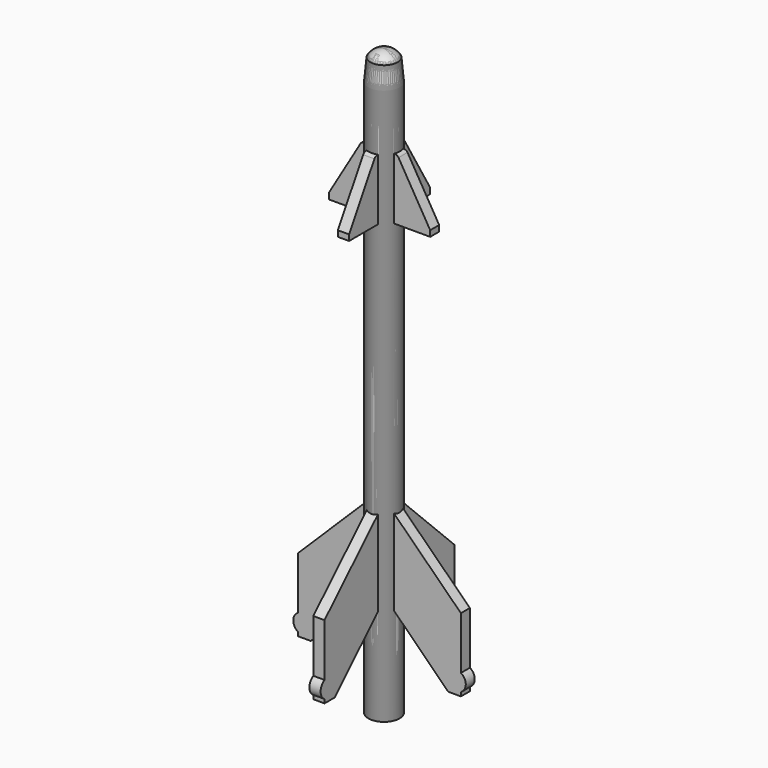
from build123d import *

# Parameters (mm, degrees)
F3_DEPTH = 0.2
F4_COUNT = 4


with BuildPart() as f1:
    # F0 (on Front) → F1 (revolve)
    with BuildSketch(Plane.XZ):
        with BuildLine():
            Line((0, 20.8333333333), (0, 0))
            Line((0, 0), (0.5555555556, 0))
            Line((0.5555555556, 0), (0.5555555556, 19.7916666667))
            Line((0.5555555556, 19.7916666667), (0.4861111111, 20.5555555556))
            ThreePointArc((0.4861111111, 20.5555555556), (0.2799395051, 20.7589913562), (0, 20.8333333333))
        make_face()
    revolve(axis=Axis((0, 0, 10.4166666667), (0, 0, 1)))

    # F2 (on Front) → F3 (join, symmetric)
    with BuildSketch(Plane.XZ):
        with BuildLine():
            Line((2.8993055556, 4.1458333333), (0.3780721664, 6.6334502773))
            Line((0.3780721664, 6.6334502773), (-0.3780721664, 6.6334502773))
            Line((-0.3780721664, 6.6334502773), (-2.8993055556, 4.1458333333))
            Line((-2.8993055556, 4.1458333333), (-2.8993055556, 2.2708333333))
            ThreePointArc((-2.8993055556, 2.2708333333), (-3.0729166667, 1.9722222222), (-2.8993055556, 1.6736111111))
            Line((-2.8993055556, 1.6736111111), (-2.8993055556, 1.5347222222))
            Line((-2.8993055556, 1.5347222222), (-2.4479166667, 1.5347222222))
            Line((-2.4479166667, 1.5347222222), (-0.2579651423, 3.7045824482))
            Line((-0.2579651423, 3.7045824482), (0.2579651423, 3.7045824482))
            Line((0.2579651423, 3.7045824482), (2.4479166667, 1.5347222222))
            Line((2.4479166667, 1.5347222222), (2.8993055556, 1.5347222222))
            Line((2.8993055556, 1.5347222222), (2.8993055556, 1.6736111111))
            ThreePointArc((2.8993055556, 1.6736111111), (3.0729166667, 1.9722222222), (2.8993055556, 2.2708333333))
            Line((2.8993055556, 2.2708333333), (2.8993055556, 4.1458333333))
        make_face()
        with BuildLine():
            Line((-1.8055555556, 15.7986111111), (-1.8055555556, 15.5902777778))
            Line((-1.8055555556, 15.5902777778), (1.8055555556, 15.5902777778))
            Line((1.8055555556, 15.5902777778), (1.8055555556, 15.7986111111))
            Line((1.8055555556, 15.7986111111), (0.6772445178, 17.7083333333))
            ThreePointArc((0.6772445178, 17.7083333333), (0.6256104169, 17.7591950988), (0.5555555556, 17.7777777778))
            Line((0.5555555556, 17.7777777778), (-0.5555555556, 17.7777777778))
            ThreePointArc((-0.5555555556, 17.7777777778), (-0.6256104169, 17.7591950988), (-0.6772445178, 17.7083333333))
            Line((-0.6772445178, 17.7083333333), (-1.8055555556, 15.7986111111))
        make_face()
    extrude(amount=F3_DEPTH, both=True)


with BuildPart() as f4_1:
    # F4: instance of F1
    add(f1.part.rotate(Axis((0, 0, 0), (0, 0, 1)), 1 * 360 / F4_COUNT))


with BuildPart() as f4_2:
    # F4: instance of F1
    add(f1.part.rotate(Axis((0, 0, 0), (0, 0, 1)), 2 * 360 / F4_COUNT))


with BuildPart() as f4_3:
    # F4: instance of F1
    add(f1.part.rotate(Axis((0, 0, 0), (0, 0, 1)), 3 * 360 / F4_COUNT))


solid = Compound([f1.part, f4_1.part, f4_2.part, f4_3.part])
